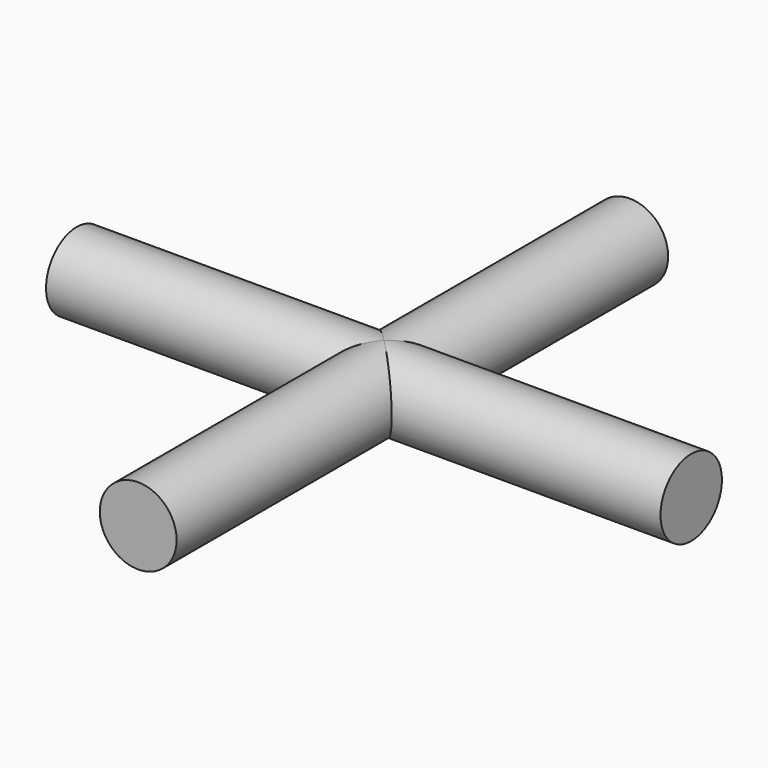
from build123d import *

# Parameters (mm, degrees)
F0_R          = 76.2
F1_DEPTH      = 609.6
F1_DEPTH_BACK = 609.6
F2_R          = 76.2
F3_DEPTH      = 609.6
F3_DEPTH_BACK = 609.6


with BuildPart() as f1:
    # F0 (on Front) → F1 (new body, two sides)
    with BuildSketch(Plane.XZ) as f1_sk:
        Circle(F0_R)
    extrude(amount=F1_DEPTH)
    extrude(f1_sk.sketch, amount=-F1_DEPTH_BACK)

    # F2 (on Right) → F3 (join, two sides)
    with BuildSketch(Plane.YZ) as f3_sk:
        Circle(F2_R)
    extrude(amount=F3_DEPTH)
    extrude(f3_sk.sketch, amount=-F3_DEPTH_BACK)


solid = f1.part
